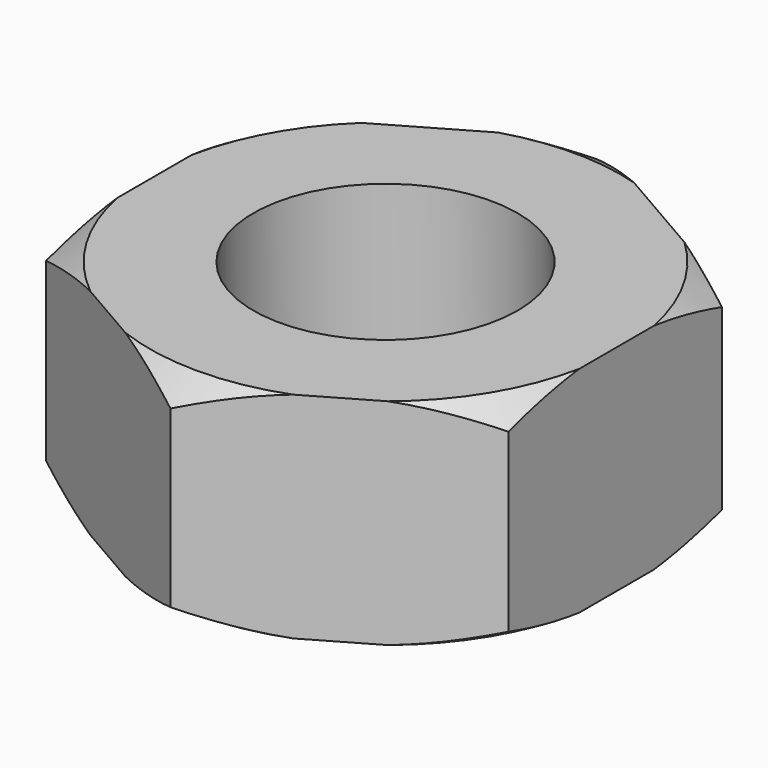
from build123d import *

# Parameters (mm, degrees)
F0_R     = 4
F1_DEPTH = 15
F3_DEPTH = 6.5
F7_R     = 4
F8_DEPTH = 21.5


with BuildPart() as f1:
    # F0 (on Top) → F1 (new body)
    with BuildSketch(Plane.XY):
        Circle(F0_R)
    extrude(amount=-F1_DEPTH)

    # F2 (on Top) → F3 (join)
    with BuildSketch(Plane.XY):
        Polygon((7, 3.984384), (0, 8.025836), (-7, 3.984384), (-7, -4.098519), (0, -8.139971), (7, -4.098519), align=None)
    extrude(amount=F3_DEPTH)

    # F6: sweep along a path in F5
    with BuildLine(Plane.XY.offset(6.5)) as f6_path:
        CenterArc((0, 0), 8.139971, 0, 360)
    # F4 (on Right) → F6 (sweep, cut)
    with BuildSketch(Plane.YZ):
        Polygon((-8.139971, 5.9), (-7.139971, 6.5), (-8.139971, 6.5), align=None)
        Polygon((-7.139971, 0), (-8.139971, 0.6), (-8.139971, 0), align=None)
    sweep(path=f6_path.line, mode=Mode.SUBTRACT)

    # F7 (on face) → F8 (cut, through all)
    with BuildSketch(Plane(origin=(0, 0, -15), x_dir=(1, 0, 0), z_dir=(0, 0, -1))):
        Circle(F7_R)
    extrude(amount=-F8_DEPTH, mode=Mode.SUBTRACT)


solid = f1.part
